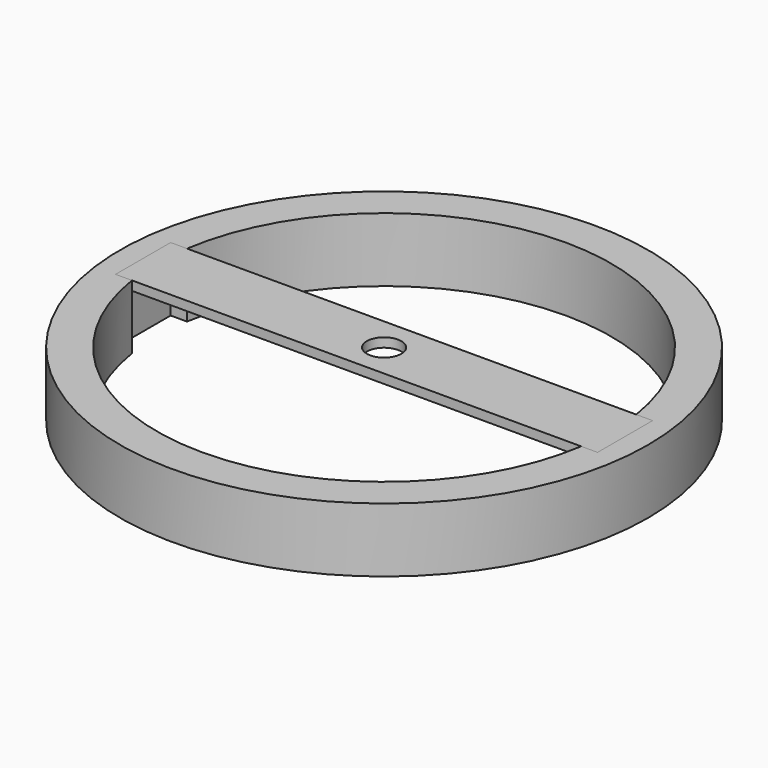
from build123d import *

# Parameters (mm, degrees)
F0_R     = 57.5
F1_DEPTH = 14
F0_R_2   = 3.75
F2_DEPTH = 2


with BuildPart() as f1:
    # F0 (on Top) → F1 (new body)
    with BuildSketch(Plane.XY):
        Circle(F0_R)
        with BuildLine():
            ThreePointArc((-48.928519, 7.5), (0, 49.5), (48.928519, 7.5))
            Line((48.928519, 7.5), (52.5, 7.5))
            Line((52.5, 7.5), (52.5, -7.5))
            Line((52.5, -7.5), (48.928519, -7.5))
            ThreePointArc((48.928519, -7.5), (0, -49.5), (-48.928519, -7.5))
            Line((-48.928519, -7.5), (-52.5, -7.5))
            Line((-52.5, -7.5), (-52.5, 7.5))
            Line((-52.5, 7.5), (-48.928519, 7.5))
        make_face(mode=Mode.SUBTRACT)
    extrude(amount=-F1_DEPTH)


with BuildPart() as f2:
    # F0 (on Top) → F2 (new body)
    with BuildSketch(Plane.XY):
        with BuildLine():
            ThreePointArc((-48.928519, -7.5), (-49.5, 0), (-48.928519, 7.5))
            Line((-48.928519, 7.5), (-52.5, 7.5))
            Line((-52.5, 7.5), (-52.5, -7.5))
            Line((-52.5, -7.5), (-48.928519, -7.5))
        make_face()
        with BuildLine():
            ThreePointArc((48.928519, -7.5), (49.356923, -3.760871), (49.5, 0))
            ThreePointArc((49.5, 0), (49.356923, 3.760871), (48.928519, 7.5))
            Line((48.928519, 7.5), (-48.928519, 7.5))
            ThreePointArc((-48.928519, 7.5), (-49.5, 0), (-48.928519, -7.5))
            Line((-48.928519, -7.5), (48.928519, -7.5))
        make_face()
        Circle(F0_R_2, mode=Mode.SUBTRACT)
        with BuildLine():
            ThreePointArc((48.928519, 7.5), (49.356923, 3.760871), (49.5, 0))
            ThreePointArc((49.5, 0), (49.356923, -3.760871), (48.928519, -7.5))
            Line((48.928519, -7.5), (52.5, -7.5))
            Line((52.5, -7.5), (52.5, 7.5))
            Line((52.5, 7.5), (48.928519, 7.5))
        make_face()
    extrude(amount=-F2_DEPTH)


solid = Compound([f1.part, f2.part])
